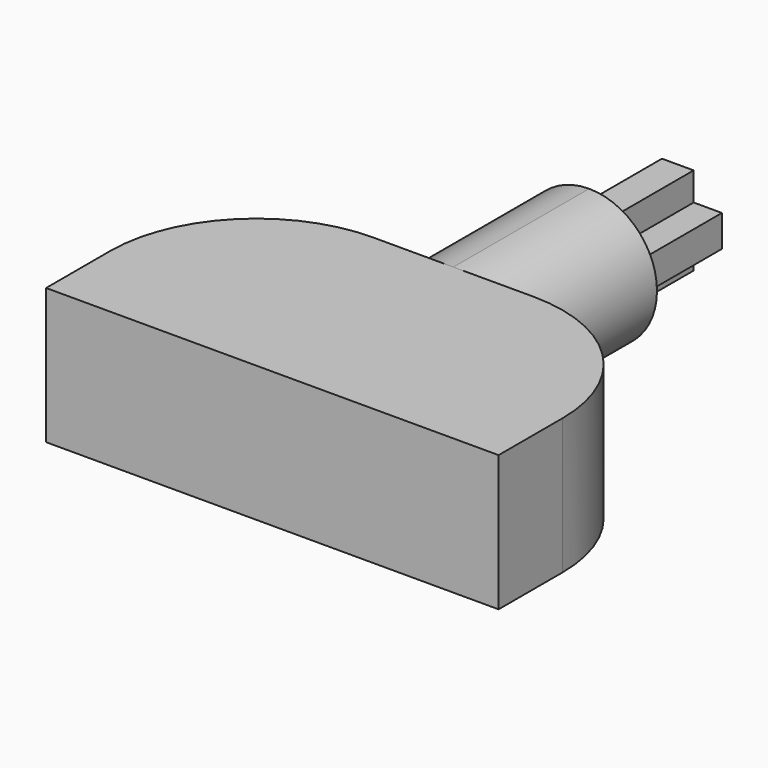
from build123d import *

# Parameters (mm, degrees)
F1_DEPTH = 12
F3_DEPTH = 15
F5_DEPTH = 9.8


with BuildPart() as f1:
    # F0 (on Top) → F1 (new body)
    with BuildSketch(Plane.XY):
        with BuildLine():
            Line((-20, -10), (-7.079002, -10))
            Line((-7.079002, -10), (7.079002, -10))
            Line((7.079002, -10), (20, -10))
            Line((20, -10), (20, -2.920998))
            ThreePointArc((20, -2.920998), (16.215527, 6.215527), (7.079002, 10))
            Line((7.079002, 10), (-7.079002, 10))
            ThreePointArc((-7.079002, 10), (-16.215527, 6.215527), (-20, -2.920998))
            Line((-20, -2.920998), (-20, -10))
        make_face()
    extrude(amount=F1_DEPTH)

    # F2 (on face) → F3 (join)
    with BuildSketch(Plane(origin=(0, 10, 0), x_dir=(-1, 0, 0), z_dir=(0, 1, 0))):
        with BuildLine():
            ThreePointArc((0, 0), (4.242641, 1.757359), (6, 6))
            ThreePointArc((6, 6), (4.242641, 10.242641), (0, 12))
            ThreePointArc((0, 12), (-6, 6), (0, 0))
        make_face()
    extrude(amount=F3_DEPTH)

    # F4 (on face) → F5 (join)
    with BuildSketch(Plane(origin=(0, 25, 0), x_dir=(-1, 0, 0), z_dir=(0, 1, 0))):
        Polygon((-3.9, 7.4), (-3.9, 4.6), (-1.4, 4.6), (-1.4, 2.1), (1.4, 2.1), (1.4, 4.6), (3.9, 4.6), (3.9, 7.4), (1.4, 7.4), (1.4, 9.9), (-1.4, 9.9), (-1.4, 7.4), align=None)
    extrude(amount=F5_DEPTH)


solid = f1.part
